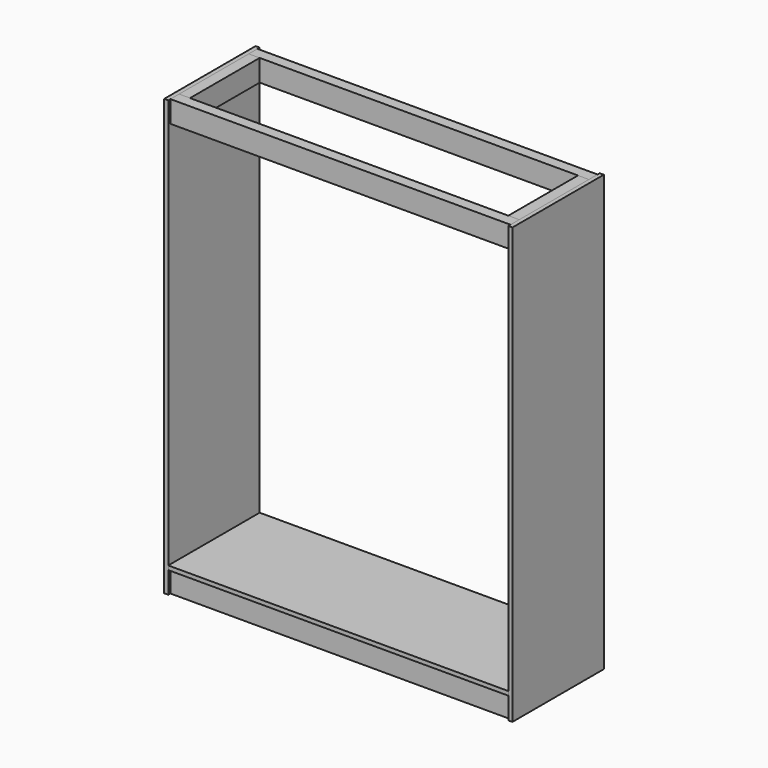
from build123d import *

# Parameters (mm, degrees)
F0_W      = 1587.5
F0_H      = 101.6
F1_DEPTH  = 50.8
F2_DEPTH  = 50.8
F3_W      = 50.8
F3_H      = 101.6
F4_DEPTH  = 19.05
F11_W     = 50.8
F11_H     = 406.4
F12_DEPTH = 101.6
F17_W     = 1587.5
F17_H     = 533.4
F18_DEPTH = 19.05


with BuildPart() as f1:
    # F0 (on Front) → F1 (new body)
    with BuildSketch(Plane.XZ):
        with Locations((0, 1981.2000244141)):
            Rectangle(F0_W, F0_H)
    extrude(amount=-F1_DEPTH)


with BuildPart() as f2:
    # F0 (on Front) → F2 (new body)
    with BuildSketch(Plane.XZ):
        with Locations((0, 50.8)):
            Rectangle(F0_W, F0_H)
    extrude(amount=-F2_DEPTH)


with BuildPart() as f4:
    # F3 (on face) → F4 (new body)
    with BuildSketch(Plane.YZ.offset(793.75)):
        Polygon((533.4, 2032.0000244141), (50.8, 2032.0000244141), (50.8, 1930.4000244141), (0, 1930.4000244141), (0, 0), (533.4, 2.44141e-05), align=None)
        with Locations((25.4, 1981.2000244141)):
            Rectangle(F3_W, F3_H)
    extrude(amount=F4_DEPTH)


with BuildPart() as f5_1:
    # F5: copy of F1
    add(f1.part)


with BuildPart() as f5_2:
    # F5: copy of F2
    add(f2.part)


with BuildPart() as f5_2_1:
    # F6: moved
    add(f5_2.part.moved(Location((0, 482.6, 0))))


with BuildPart() as f5_1_1:
    # F6: moved
    add(f5_1.part.moved(Location((0, 482.6, 0))))


with BuildPart() as f7_1:
    # F7: copy of F4
    add(f4.part)


with BuildPart() as f7_1_1:
    # F8: moved
    add(f7_1.part.moved(Location((-1606.55, 0, 0))))


with BuildPart() as f5_1_2:
    # F9: moved
    add(f5_1_1.part.moved(Location((0, -12.7, 0))))


with BuildPart() as f5_2_2:
    # F9: moved
    add(f5_2_1.part.moved(Location((0, -12.7, 0))))


with BuildPart() as f1_1:
    # F10: moved
    add(f1.part.moved(Location((0, 12.7, 0))))


with BuildPart() as f2_1:
    # F10: moved
    add(f2.part.moved(Location((0, 12.7, 0))))


with BuildPart() as f12:
    # F11 (on face) → F12 (new body)
    with BuildSketch(Plane.XY.offset(2032.0000244141)):
        with Locations((-768.35, 266.7)):
            Rectangle(F11_W, F11_H)
    extrude(amount=-F12_DEPTH)


with BuildPart() as f13_1:
    # F13: copy of F12
    add(f12.part)


with BuildPart() as f13_1_1:
    # F14: moved
    add(f13_1.part.moved(Location((1536.7, 0, 0))))


with BuildPart() as f15_1:
    # F15: copy of F12
    add(f12.part)


with BuildPart() as f15_2:
    # F15: copy of F13_1
    add(f13_1_1.part)


with BuildPart() as f15_1_1:
    # F16: moved
    add(f15_1.part.moved(Location((0, 0, -1930.4))))


with BuildPart() as f15_2_1:
    # F16: moved
    add(f15_2.part.moved(Location((0, 0, -1930.4))))


with BuildPart() as f18:
    # F17 (on face) → F18 (new body)
    with BuildSketch(Plane.XY.offset(2032.0000244141)):
        with Locations((0, 266.7)):
            Rectangle(F17_W, F17_H)
    extrude(amount=F18_DEPTH)


with BuildPart() as f18_1:
    # F19: moved
    add(f18.part.moved(Location((0, 0, -1930.4))))


solid = Compound([f4.part, f7_1_1.part, f5_1_2.part, f5_2_2.part, f1_1.part, f2_1.part, f12.part, f13_1_1.part, f15_1_1.part, f15_2_1.part, f18_1.part])
